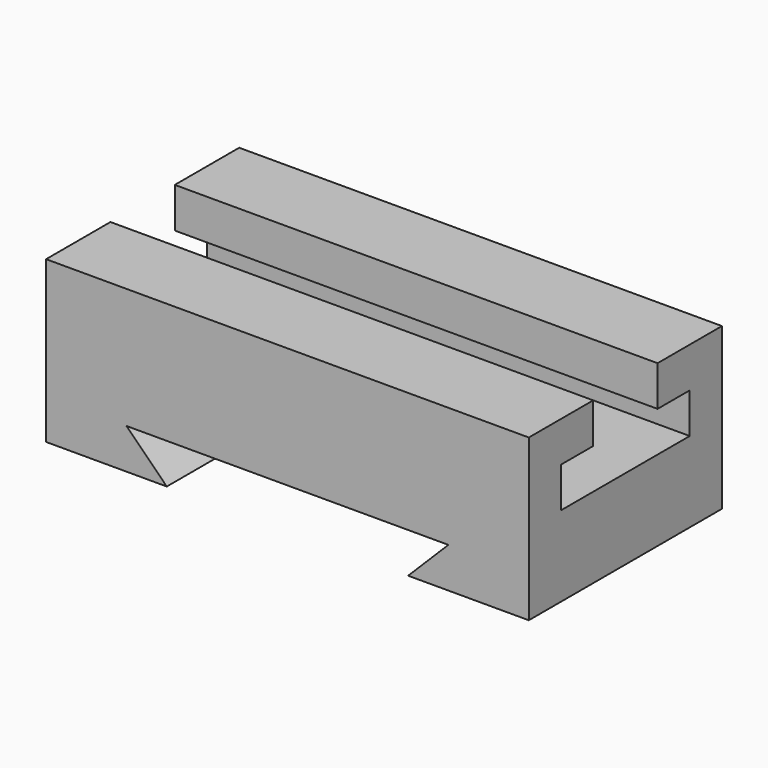
from build123d import *

# Parameters (mm, degrees)
F1_DEPTH = 76.2
F2_W     = 25.4
F2_H     = 25.4
F3_DEPTH = 152.401
F4_W     = 12.7
F4_H     = 12.7
F5_DEPTH = 152.401


with BuildPart() as f1:
    # F0 (on Front) → F1 (new body)
    with BuildSketch(Plane.XZ):
        Polygon((12.7, -12.7), (0, 0), (101.6, 0), (88.9, -12.7), (127, -12.7), (127, 38.1), (-25.4, 38.1), (-25.4, -12.7), align=None)
    extrude(amount=F1_DEPTH)

    # F2 (on face) → F3 (cut, through all)
    with BuildSketch(Plane.YZ.offset(127)):
        with Locations((-38.1, 25.4)):
            Rectangle(F2_W, F2_H)
    extrude(amount=-F3_DEPTH, mode=Mode.SUBTRACT)

    # F4 (on face) → F5 (cut, through all)
    with BuildSketch(Plane.YZ.offset(127)):
        with Locations((-19.05, 19.05)):
            Rectangle(F4_W, F4_H)
        with Locations((-57.15, 19.05)):
            Rectangle(F4_W, F4_H)
    extrude(amount=-F5_DEPTH, mode=Mode.SUBTRACT)


solid = f1.part
